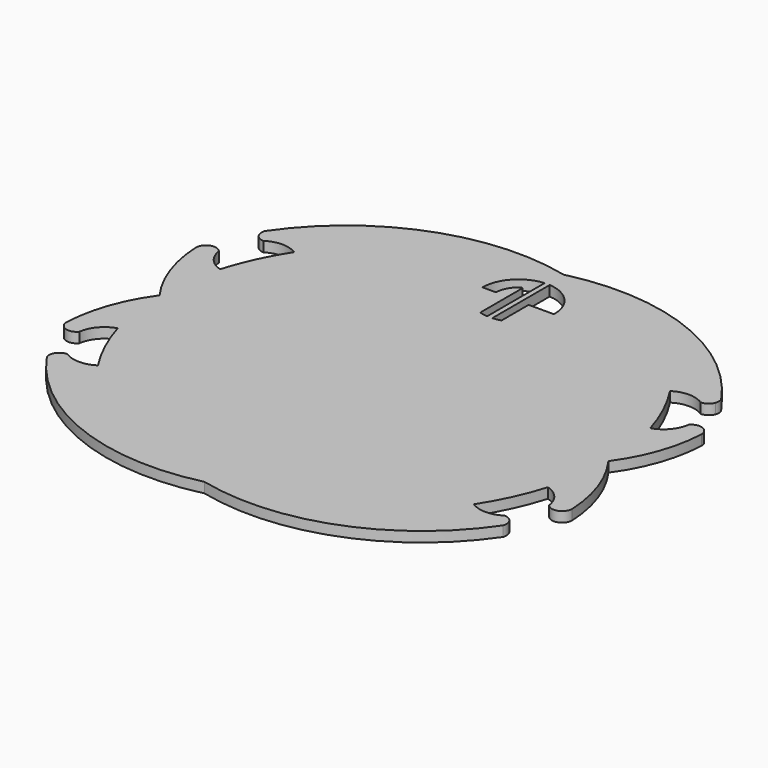
from build123d import *

# Parameters (mm, degrees)
F1_DEPTH = 5


with BuildPart() as f1:
    # F0 (on Top) → F1 (new body)
    with BuildSketch(Plane.XY):
        with BuildLine():
            ThreePointArc((-49.3595098916, 110.2112788137), (-84.71847747, 94.422814407), (-112.0164757766, 66.9573545531))
            ThreePointArc((-112.0164757766, 66.9573545531), (-111.4379878132, 62.359119868), (-107.33126292, 60.2112788137))
            ThreePointArc((-107.33126292, 60.2112788137), (-99.8206092018, 62.444259798), (-92.3099554835, 60.2112788137))
            Line((-92.3099554835, 60.2112788137), (0, 0))
            Line((0, 0), (-110.2112788137, 0))
            ThreePointArc((-110.2112788137, 0), (-109.0627736394, -15.869385112), (-105.6411951245, -31.4080223893))
            ThreePointArc((-105.6411951245, -31.4080223893), (-100.0178554155, -46.292057373), (-92.3099554835, -60.2112788137))
            ThreePointArc((-92.3099554835, -60.2112788137), (-99.8206092018, -62.444259798), (-107.33126292, -60.2112788137))
            ThreePointArc((-107.33126292, -60.2112788137), (-111.4379878132, -62.359119868), (-112.0164757766, -66.9573545531))
            ThreePointArc((-112.0164757766, -66.9573545531), (-62.7481057699, -106.0388311627), (0, -110.2112788137))
            ThreePointArc((0, -110.2112788137), (62.7481057699, -106.0388311627), (112.0164757766, -66.9573545531))
            ThreePointArc((112.0164757766, -66.9573545531), (111.4379878132, -62.359119868), (107.33126292, -60.2112788137))
            ThreePointArc((107.33126292, -60.2112788137), (99.8206092018, -62.444259798), (92.3099554835, -60.2112788137))
            ThreePointArc((92.3099554835, -60.2112788137), (100.0178554155, -46.292057373), (105.6411951245, -31.4080223893))
            ThreePointArc((105.6411951245, -31.4080223893), (109.0627736394, -15.869385112), (110.2112788137, 0))
            ThreePointArc((110.2112788137, 0), (109.0627736394, 15.869385112), (105.6411951245, 31.4080223893))
            ThreePointArc((105.6411951245, 31.4080223893), (100.0178554155, 46.292057373), (92.3099554835, 60.2112788137))
            ThreePointArc((92.3099554835, 60.2112788137), (99.8206092018, 62.444259798), (107.33126292, 60.2112788137))
            ThreePointArc((107.33126292, 60.2112788137), (110.1834218657, 61.1045539205), (112.0164757766, 63.4652030743))
            Line((112.0164757766, 63.4652030743), (112.0164757766, 66.9573545531))
            ThreePointArc((112.0164757766, 66.9573545531), (84.71847747, 94.422814407), (49.3595098916, 110.2112788137))
            Line((49.3595098916, 110.2112788137), (0, 110.2112788137))
            Line((0, 110.2112788137), (-49.3595098916, 110.2112788137))
        make_face()
        with BuildLine():
            ThreePointArc((-17.676910541, 82.5358693145), (-12.9316790716, 94.5842825427), (-1.2471505461, 100.165794538))
            Line((-1.2471505461, 100.165794538), (-1.2471505461, 82.5358693145))
            Line((-1.2471505461, 82.5358693145), (-1.2471505461, 65.0322264722))
            Line((-1.2471505461, 65.0322264722), (-1.2471505461, 64.8986584064))
            ThreePointArc((-1.2471505461, 64.8986584064), (-3.2688897914, 65.1595640594), (-5.2471505461, 65.6514845023))
            Line((-5.2471505461, 65.6514845023), (-5.2471505461, 91.2374200697))
            Line((-5.2471505461, 91.2374200697), (-5.2471505461, 91.3882628083))
            ThreePointArc((-5.2471505461, 91.3882628083), (-5.4893133361, 91.7531337591), (-5.9247359984, 91.7998320749))
            ThreePointArc((-5.9247359984, 91.7998320749), (-6.030968486, 91.7310453203), (-6.1364025444, 91.6610409037))
            ThreePointArc((-6.1364025444, 91.6610409037), (-9.7068547443, 87.705450119), (-10.9992407835, 82.5358693145))
            Line((-10.9992407835, 82.5358693145), (-17.676910541, 82.5358693145))
        make_face(mode=Mode.SUBTRACT)
        with BuildLine():
            Line((17.6757126889, 82.222390346), (5.25, 82.222390346))
            Line((5.25, 82.222390346), (5.25, 65.6518987247))
            ThreePointArc((5.25, 65.6518987247), (3.2717488011, 65.1598166454), (1.25, 64.8987527373))
            Line((1.25, 64.8987527373), (1.25, 65.0322264722))
            Line((1.25, 65.0322264722), (1.25, 82.5322264722))
            Line((1.25, 82.5322264722), (1.25, 100.165700207))
            ThreePointArc((1.25, 100.165700207), (13.0400026737, 94.4686461336), (17.6757126889, 82.222390346))
        make_face(mode=Mode.SUBTRACT)
        with BuildLine():
            ThreePointArc((0, 110.2112788137), (-24.6797549458, 113.1333968343), (-49.3595098916, 110.2112788137))
            Line((-49.3595098916, 110.2112788137), (0, 110.2112788137))
        make_face()
        with BuildLine():
            Line((0, 0), (-92.3099554835, 60.2112788137))
            ThreePointArc((-92.3099554835, 60.2112788137), (-96.4154183349, 53.3909457218), (-100.0178554155, 46.292057373))
            Line((-100.0178554155, 46.292057373), (0, 0))
        make_face()
        with BuildLine():
            ThreePointArc((49.3595098916, 110.2112788137), (24.6797549458, 113.1333968343), (0, 110.2112788137))
            Line((0, 110.2112788137), (49.3595098916, 110.2112788137))
        make_face()
        with BuildLine():
            Line((0, 0), (-100.0178554155, 46.292057373))
            ThreePointArc((-100.0178554155, 46.292057373), (-103.09847182, 38.9516506215), (-105.6411951245, 31.4080223893))
            Line((-105.6411951245, 31.4080223893), (0, 0))
        make_face()
        with BuildLine():
            Line((-109.0627736443, 15.869385078), (0, 0))
            Line((0, 0), (-105.6411951245, 31.4080223893))
            ThreePointArc((-105.6411951245, 31.4080223893), (-107.6327592495, 23.7005298274), (-109.0627736443, 15.869385078))
        make_face()
        with BuildLine():
            Line((-110.2112788137, 0), (0, 0))
            Line((0, 0), (-109.0627736443, 15.869385078))
            ThreePointArc((-109.0627736443, 15.869385078), (-109.923777528, 7.955445413), (-110.2112788137, 0))
        make_face()
        with BuildLine():
            ThreePointArc((-109.0627736443, 15.869385078), (-107.6327592495, 23.7005298274), (-105.6411951245, 31.4080223893))
            ThreePointArc((-105.6411951245, 31.4080223893), (-112.2040526288, 35.6887962365), (-115.362225006, 42.8597146287))
            ThreePointArc((-115.362225006, 42.8597146287), (-120.874929791, 44.3257734811), (-124.1738093645, 39.6721043733))
            ThreePointArc((-124.1738093645, 39.6721043733), (-120.0946527482, 18.8146599148), (-110.2112788137, 0))
            ThreePointArc((-110.2112788137, 0), (-109.923777528, 7.955445413), (-109.0627736443, 15.869385078))
        make_face()
        with BuildLine():
            ThreePointArc((-105.6411951245, -31.4080223893), (-109.0627736394, -15.869385112), (-110.2112788137, 0))
            ThreePointArc((-110.2112788137, 0), (-120.0946527482, -18.8146599148), (-124.1738093645, -39.6721043733))
            ThreePointArc((-124.1738093645, -39.6721043733), (-120.874929791, -44.3257734811), (-115.362225006, -42.8597146287))
            ThreePointArc((-115.362225006, -42.8597146287), (-112.2040526288, -35.6887962365), (-105.6411951245, -31.4080223893))
        make_face()
        with BuildLine():
            ThreePointArc((112.0164757766, 63.4652030743), (112.33126292, 65.2112788137), (112.0164757766, 66.9573545531))
            Line((112.0164757766, 66.9573545531), (112.0164757766, 63.4652030743))
        make_face()
        with BuildLine():
            ThreePointArc((115.362225006, 42.8597146287), (112.2040526288, 35.6887962365), (105.6411951245, 31.4080223893))
            ThreePointArc((105.6411951245, 31.4080223893), (109.0627736394, 15.869385112), (110.2112788137, 0))
            ThreePointArc((110.2112788137, 0), (120.0946527482, 18.8146599148), (124.1738093645, 39.6721043733))
            ThreePointArc((124.1738093645, 39.6721043733), (120.874929791, 44.3257734811), (115.362225006, 42.8597146287))
        make_face()
        with BuildLine():
            ThreePointArc((124.1738093645, -39.6721043733), (120.0946527482, -18.8146599148), (110.2112788137, 0))
            ThreePointArc((110.2112788137, 0), (109.0627736394, -15.869385112), (105.6411951245, -31.4080223893))
            ThreePointArc((105.6411951245, -31.4080223893), (112.2040526288, -35.6887962365), (115.362225006, -42.8597146287))
            ThreePointArc((115.362225006, -42.8597146287), (120.874929791, -44.3257734811), (124.1738093645, -39.6721043733))
        make_face()
    extrude(amount=F1_DEPTH)


solid = f1.part
